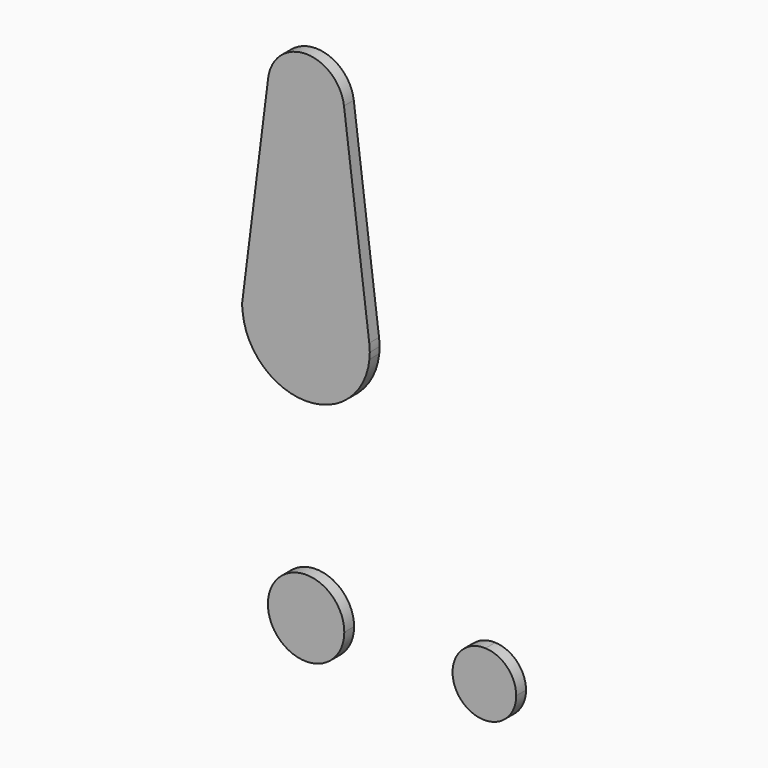
from build123d import *

# Parameters (mm, degrees)
F0_R     = 4.391456
F0_R_2   = 3.038562
F0_R_3   = 4.328218
F1_DEPTH = 3.048


with BuildPart() as f1:
    # F0 (on Front) → F1 (new body)
    with BuildSketch(Plane.XZ):
        with BuildLine():
            ThreePointArc((-9.450293, 51.990625), (-0.596483, 41.293695), (9.525, 50.8))
            ThreePointArc((9.525, 50.8), (9.506305, 51.396483), (9.450293, 51.990625))
            ThreePointArc((9.450293, 51.990625), (0, 60.325), (-9.450293, 51.990625))
        make_face()
        with Locations((0, 50.8)):
            Circle(F0_R, mode=Mode.SUBTRACT)
        with BuildLine():
            ThreePointArc((9.450293, 51.990625), (9.506305, 51.396483), (9.525, 50.8))
            ThreePointArc((9.525, 50.8), (-0.596483, 41.293695), (-9.450293, 51.990625))
            Line((-9.450293, 51.990625), (-15.750488, 1.984375))
            ThreePointArc((-15.750488, 1.984375), (0, 15.875), (15.750488, 1.984375))
            Line((15.750488, 1.984375), (9.450293, 51.990625))
        make_face()
        with Locations((-0.136438, 36.5252)):
            Circle(F0_R_2, mode=Mode.SUBTRACT)
        with BuildLine():
            ThreePointArc((0, -73.025), (0.338886, -73.01897), (0.677344, -73.000886))
            Line((0.677344, -73.000886), (0, -73.025))
        make_face()
        with BuildLine():
            Line((0, -73.025), (0.677344, -73.000886))
            ThreePointArc((0.677344, -73.000886), (6.970557, -69.991299), (9.525, -63.5))
            ThreePointArc((9.525, -63.5), (-6.735192, -56.764808), (0, -73.025))
        make_face()
        with Locations((0, -63.5)):
            Circle(F0_R_3, mode=Mode.SUBTRACT)
        with BuildLine():
            ThreePointArc((52.3875, -63.5), (50.161633, -57.98809), (44.732405, -55.567525))
            ThreePointArc((44.732405, -55.567525), (36.5125, -63.5), (44.732405, -71.432475))
            ThreePointArc((44.732405, -71.432475), (50.161633, -69.01191), (52.3875, -63.5))
        make_face()
        with Locations((44.45, -63.5)):
            Circle(F0_R_3, mode=Mode.SUBTRACT)
        with BuildLine():
            ThreePointArc((15.875, 0), (15.843841, 0.994139), (15.750488, 1.984375))
            ThreePointArc((15.750488, 1.984375), (0, 15.875), (-15.750488, 1.984375))
            ThreePointArc((-15.750488, 1.984375), (-15.873744, 0.199705), (-15.795426, -1.5875))
            ThreePointArc((-15.795426, -1.5875), (0.000548, -15.875), (15.795535, -1.58641))
            ThreePointArc((15.795535, -1.58641), (15.855121, -0.794199), (15.875, 0))
        make_face()
        Circle(F0_R, mode=Mode.SUBTRACT)
        with BuildLine():
            ThreePointArc((-15.795426, -1.5875), (-15.873744, 0.199705), (-15.750488, 1.984375))
            Line((-15.750488, 1.984375), (-15.975175, 0.200982))
            Line((-15.975175, 0.200982), (-15.795426, -1.5875))
        make_face()
        with Locations((0, 50.8)):
            Circle(F0_R)
        Circle(F0_R)
        with Locations((0, -63.5)):
            Circle(F0_R_3)
        with Locations((44.45, -63.5)):
            Circle(F0_R_3)
        with Locations((-0.136438, 36.5252)):
            Circle(F0_R_2)
    extrude(amount=F1_DEPTH)


solid = f1.part
